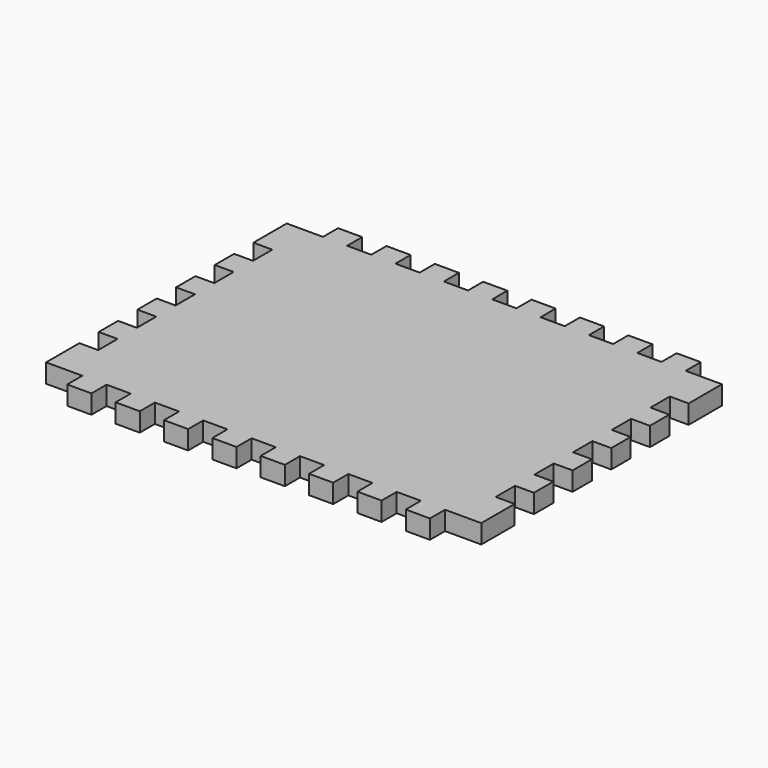
from build123d import *

# Parameters (mm, degrees)
F1_DEPTH = 9.906


with BuildPart() as f1:
    # F0 (on Top) → F1 (new body)
    with BuildSketch(Plane.XY):
        Polygon((19.05, 0), (19.05, -9.906), (0, -9.906), (0, -31.75), (9.906, -31.75), (9.906, -44.45), (0, -44.45), (0, -57.15), (9.906, -57.15), (9.906, -69.85), (0, -69.85), (0, -82.55), (9.906, -82.55), (9.906, -95.25), (0, -95.25), (0, -107.95), (9.906, -107.95), (9.906, -120.65), (0, -120.65), (0, -133.35), (9.906, -133.35), (9.906, -146.05), (0, -146.05), (0, -167.894), (19.05, -167.894), (19.05, -177.8), (31.75, -177.8), (31.75, -167.894), (44.45, -167.894), (44.45, -177.8), (57.15, -177.8), (57.15, -167.894), (69.85, -167.894), (69.85, -177.8), (82.55, -177.8), (82.55, -167.894), (95.25, -167.894), (95.25, -177.8), (107.95, -177.8), (107.95, -167.894), (120.65, -167.894), (120.65, -177.8), (133.35, -177.8), (133.35, -167.894), (146.05, -167.894), (146.05, -177.8), (158.75, -177.8), (158.75, -167.894), (171.45, -167.894), (171.45, -177.8), (184.15, -177.8), (184.15, -167.894), (196.85, -167.894), (196.85, -177.8), (209.55, -177.8), (209.55, -167.894), (228.6, -167.894), (228.6, -146.05), (218.694, -146.05), (218.694, -133.35), (228.6, -133.35), (228.6, -120.65), (218.694, -120.65), (218.694, -107.95), (228.6, -107.95), (228.6, -95.25), (218.694, -95.25), (218.694, -82.55), (228.6, -82.55), (228.6, -69.85), (218.694, -69.85), (218.694, -57.15), (228.6, -57.15), (228.6, -44.45), (218.694, -44.45), (218.694, -31.75), (228.6, -31.75), (228.6, -9.906), (209.55, -9.906), (209.55, 0), (196.85, 0), (196.85, -9.906), (184.15, -9.906), (184.15, 0), (171.45, 0), (171.45, -9.906), (158.75, -9.906), (158.75, 0), (146.05, 0), (146.05, -9.906), (133.35, -9.906), (133.35, 0), (120.65, 0), (120.65, -9.906), (107.95, -9.906), (107.95, 0), (95.25, 0), (95.25, -9.906), (82.55, -9.906), (82.55, 0), (69.85, 0), (69.85, -9.906), (57.15, -9.906), (57.15, 0), (44.45, 0), (44.45, -9.906), (31.75, -9.906), (31.75, 0), align=None)
    extrude(amount=F1_DEPTH)


solid = f1.part
